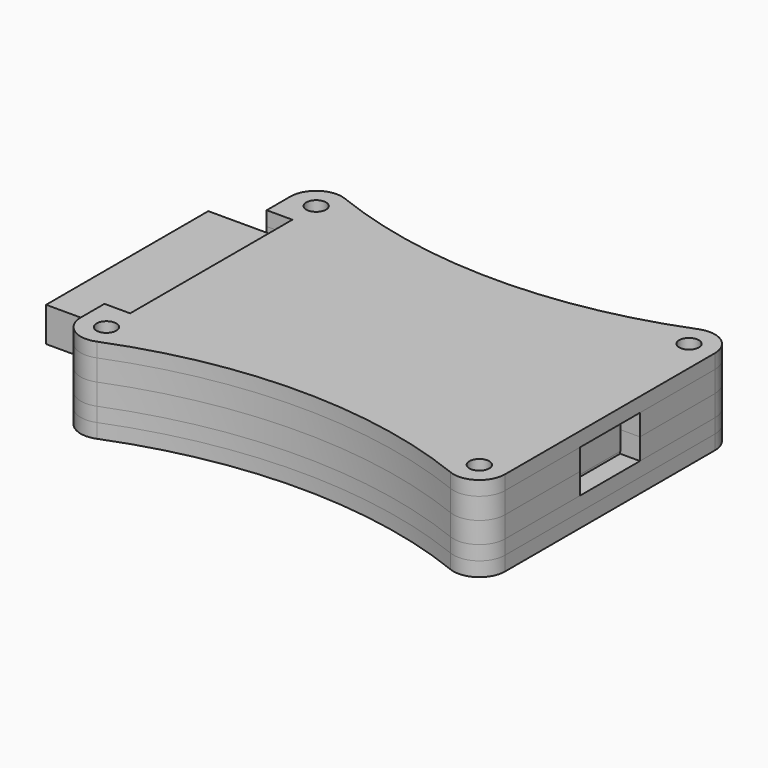
from build123d import *

# Parameters (mm, degrees)
F0_W      = 38.3
F0_H      = 20.5
F1_DEPTH  = 1.7
F2_W      = 9.3
F2_H      = 7.6
F2_W_2    = 0.05
F3_DEPTH  = 3.9
F2_W_3    = 6.75
F2_H_2    = 6.75
F2_H_3    = 4.072874
F4_DEPTH  = 1.42
F2_W_4    = 8.5
F2_H_4    = 20.5
F2_W_5    = 4.25
F5_DEPTH  = 3.5
F6_R      = 1
F6_W      = 38.3
F6_H      = 20.5
F7_DEPTH  = 1.45
F8_R      = 1
F9_DEPTH  = 2.15
F10_R     = 1
F11_DEPTH = 2.15
F12_R     = 1
F12_W     = 33.3
F12_H     = 20.5
F13_DEPTH = 1.45
F14_R     = 1
F15_DEPTH = 1.45


with BuildPart() as f1:
    # F0 (on Top) → F1 (new body)
    with BuildSketch(Plane.XY):
        Rectangle(F0_W, F0_H)
    extrude(amount=F1_DEPTH)


with BuildPart() as f3:
    # F2 (on face) → F3 (new body)
    with BuildSketch(Plane.XY.offset(1.7)):
        with Locations((14.5, 0)):
            Rectangle(F2_W, F2_H)
        with Locations((19.175, 0)):
            Rectangle(F2_W_2, F2_H)
    extrude(amount=F3_DEPTH)


with BuildPart() as f4:
    # F2 (on face) → F4 (new body)
    with BuildSketch(Plane.XY.offset(1.7)):
        with Locations((-1.411291, 4.98894)):
            Rectangle(F2_W_3, F2_H_2)
        with Locations((-1.411291, -4.727443)):
            Rectangle(F2_W_3, F2_H_3)
    extrude(amount=F4_DEPTH)


with BuildPart() as f5:
    # F2 (on face) → F5 (new body)
    with BuildSketch(Plane.XY.offset(1.7)):
        with Locations((-23.4, 0)):
            Rectangle(F2_W_4, F2_H_4)
        with Locations((-17.025, 0)):
            Rectangle(F2_W_5, F2_H_4)
    extrude(amount=F5_DEPTH)


with BuildPart() as f7:
    # F6 (on Top) → F7 (new body)
    with BuildSketch(Plane.XY):
        with BuildLine():
            ThreePointArc((-18.191844, 15.66701), (-20.610958, 15.400721), (-21.75, 13.25))
            Line((-21.75, 13.25), (-21.75, -13.25))
            ThreePointArc((-21.75, -13.25), (-20.610958, -15.400721), (-18.191844, -15.66701))
            ThreePointArc((-18.191844, -15.66701), (-0.3, -12.25), (17.591844, -15.66701))
            ThreePointArc((17.591844, -15.66701), (20.010958, -15.400721), (21.15, -13.25))
            Line((21.15, -13.25), (21.15, 13.25))
            ThreePointArc((21.15, 13.25), (20.010958, 15.400721), (17.591844, 15.66701))
            ThreePointArc((17.591844, 15.66701), (-0.3, 12.25), (-18.191844, 15.66701))
        make_face()
        with Locations((-19.15, -13.25)):
            Circle(F6_R, mode=Mode.SUBTRACT)
        with Locations((18.55, -13.25)):
            Circle(F6_R, mode=Mode.SUBTRACT)
        Rectangle(F6_W, F6_H, mode=Mode.SUBTRACT)
        with Locations((-19.15, 13.25)):
            Circle(F6_R, mode=Mode.SUBTRACT)
        with Locations((18.55, 13.25)):
            Circle(F6_R, mode=Mode.SUBTRACT)
    extrude(amount=F7_DEPTH)


with BuildPart() as f9:
    # F8 (on face) → F9 (new body)
    with BuildSketch(Plane.XY.offset(1.45)):
        with BuildLine():
            Line((-19.15, -10.25), (-21.75, -10.25))
            Line((-21.75, -10.25), (-21.75, -13.25))
            ThreePointArc((-21.75, -13.25), (-20.610958, -15.400721), (-18.191844, -15.66701))
            ThreePointArc((-18.191844, -15.66701), (-0.3, -12.25), (17.591844, -15.66701))
            ThreePointArc((17.591844, -15.66701), (20.010958, -15.400721), (21.15, -13.25))
            Line((21.15, -13.25), (21.15, -3.8))
            Line((21.15, -3.8), (19.15, -3.8))
            Line((19.15, -3.8), (19.15, -10.25))
            Line((19.15, -10.25), (-19.15, -10.25))
        make_face()
        with Locations((-19.15, -13.25)):
            Circle(F8_R, mode=Mode.SUBTRACT)
        with Locations((18.55, -13.25)):
            Circle(F8_R, mode=Mode.SUBTRACT)
        with BuildLine():
            ThreePointArc((17.591844, 15.66701), (-0.3, 12.25), (-18.191844, 15.66701))
            ThreePointArc((-18.191844, 15.66701), (-20.610958, 15.400721), (-21.75, 13.25))
            Line((-21.75, 13.25), (-21.75, 10.25))
            Line((-21.75, 10.25), (-19.15, 10.25))
            Line((-19.15, 10.25), (19.15, 10.25))
            Line((19.15, 10.25), (19.15, 3.8))
            Line((19.15, 3.8), (21.15, 3.8))
            Line((21.15, 3.8), (21.15, 13.25))
            ThreePointArc((21.15, 13.25), (20.010958, 15.400721), (17.591844, 15.66701))
        make_face()
        with Locations((-19.15, 13.25)):
            Circle(F8_R, mode=Mode.SUBTRACT)
        with Locations((18.55, 13.25)):
            Circle(F8_R, mode=Mode.SUBTRACT)
    extrude(amount=F9_DEPTH)


with BuildPart() as f11:
    # F10 (on face) → F11 (new body)
    with BuildSketch(Plane.XY.offset(3.6)):
        with BuildLine():
            ThreePointArc((17.591844, 15.66701), (-0.3, 12.25), (-18.191844, 15.66701))
            ThreePointArc((-18.191844, 15.66701), (-20.610958, 15.400721), (-21.75, 13.25))
            Line((-21.75, 13.25), (-21.75, 10.25))
            Line((-21.75, 10.25), (-14.9, 10.25))
            Line((-14.9, 10.25), (-14.9, -10.25))
            Line((-14.9, -10.25), (-21.75, -10.25))
            Line((-21.75, -10.25), (-21.75, -13.25))
            ThreePointArc((-21.75, -13.25), (-20.610958, -15.400721), (-18.191844, -15.66701))
            ThreePointArc((-18.191844, -15.66701), (-0.3, -12.25), (17.591844, -15.66701))
            ThreePointArc((17.591844, -15.66701), (20.010958, -15.400721), (21.15, -13.25))
            Line((21.15, -13.25), (21.15, -3.8))
            Line((21.15, -3.8), (9.85, -3.8))
            Line((9.85, -3.8), (9.85, 3.8))
            Line((9.85, 3.8), (21.15, 3.8))
            Line((21.15, 3.8), (21.15, 13.25))
            ThreePointArc((21.15, 13.25), (20.010958, 15.400721), (17.591844, 15.66701))
        make_face()
        with Locations((-19.15, -13.25)):
            Circle(F10_R, mode=Mode.SUBTRACT)
        with Locations((18.55, -13.25)):
            Circle(F10_R, mode=Mode.SUBTRACT)
        with Locations((-19.15, 13.25)):
            Circle(F10_R, mode=Mode.SUBTRACT)
        with Locations((18.55, 13.25)):
            Circle(F10_R, mode=Mode.SUBTRACT)
    extrude(amount=F11_DEPTH)


with BuildPart() as f13:
    # F12 (on face) → F13 (new body)
    with BuildSketch(Plane(origin=(0, 0, 0), x_dir=(1, 0, 0), z_dir=(0, 0, -1))):
        with BuildLine():
            Line((-21.75, 13.25), (-21.75, -13.25))
            ThreePointArc((-21.75, -13.25), (-20.610958, -15.400721), (-18.191844, -15.66701))
            ThreePointArc((-18.191844, -15.66701), (-0.3, -12.25), (17.591844, -15.66701))
            ThreePointArc((17.591844, -15.66701), (20.010958, -15.400721), (21.15, -13.25))
            Line((21.15, -13.25), (21.15, 13.25))
            ThreePointArc((21.15, 13.25), (20.010958, 15.400721), (17.591844, 15.66701))
            ThreePointArc((17.591844, 15.66701), (-0.3, 12.25), (-18.191844, 15.66701))
            ThreePointArc((-18.191844, 15.66701), (-20.610958, 15.400721), (-21.75, 13.25))
        make_face()
        with Locations((-19.15, -13.25)):
            Circle(F12_R, mode=Mode.SUBTRACT)
        with Locations((18.55, -13.25)):
            Circle(F12_R, mode=Mode.SUBTRACT)
        with Locations((-19.15, 13.25)):
            Circle(F12_R, mode=Mode.SUBTRACT)
        Polygon((-19.15, 10.25), (-14.15, 10.25), (19.15, 10.25), (19.15, -10.25), (-14.15, -10.25), (-19.15, -10.25), align=None, mode=Mode.SUBTRACT)
        with Locations((18.55, 13.25)):
            Circle(F12_R, mode=Mode.SUBTRACT)
        with Locations((2.5, 0)):
            Rectangle(F12_W, F12_H)
    extrude(amount=F13_DEPTH)


with BuildPart() as f15:
    # F14 (on face) → F15 (new body)
    with BuildSketch(Plane.XY.offset(5.75)):
        with BuildLine():
            ThreePointArc((-18.191844, 15.66701), (-20.610958, 15.400721), (-21.75, 13.25))
            Line((-21.75, 13.25), (-21.75, 10.25))
            Line((-21.75, 10.25), (-19.15, 10.25))
            Line((-19.15, 10.25), (-19.15, -10.25))
            Line((-19.15, -10.25), (-21.75, -10.25))
            Line((-21.75, -10.25), (-21.75, -13.25))
            ThreePointArc((-21.75, -13.25), (-20.610958, -15.400721), (-18.191844, -15.66701))
            ThreePointArc((-18.191844, -15.66701), (-0.3, -12.25), (17.591844, -15.66701))
            ThreePointArc((17.591844, -15.66701), (20.010958, -15.400721), (21.15, -13.25))
            Line((21.15, -13.25), (21.15, 13.25))
            ThreePointArc((21.15, 13.25), (20.010958, 15.400721), (17.591844, 15.66701))
            ThreePointArc((17.591844, 15.66701), (-0.3, 12.25), (-18.191844, 15.66701))
        make_face()
        with Locations((-19.15, -13.25)):
            Circle(F14_R, mode=Mode.SUBTRACT)
        with Locations((18.55, -13.25)):
            Circle(F14_R, mode=Mode.SUBTRACT)
        with Locations((-19.15, 13.25)):
            Circle(F14_R, mode=Mode.SUBTRACT)
        with Locations((18.55, 13.25)):
            Circle(F14_R, mode=Mode.SUBTRACT)
    extrude(amount=F15_DEPTH)


solid = Compound([f1.part, f3.part, f4.part, f5.part, f7.part, f9.part, f11.part, f13.part, f15.part])
